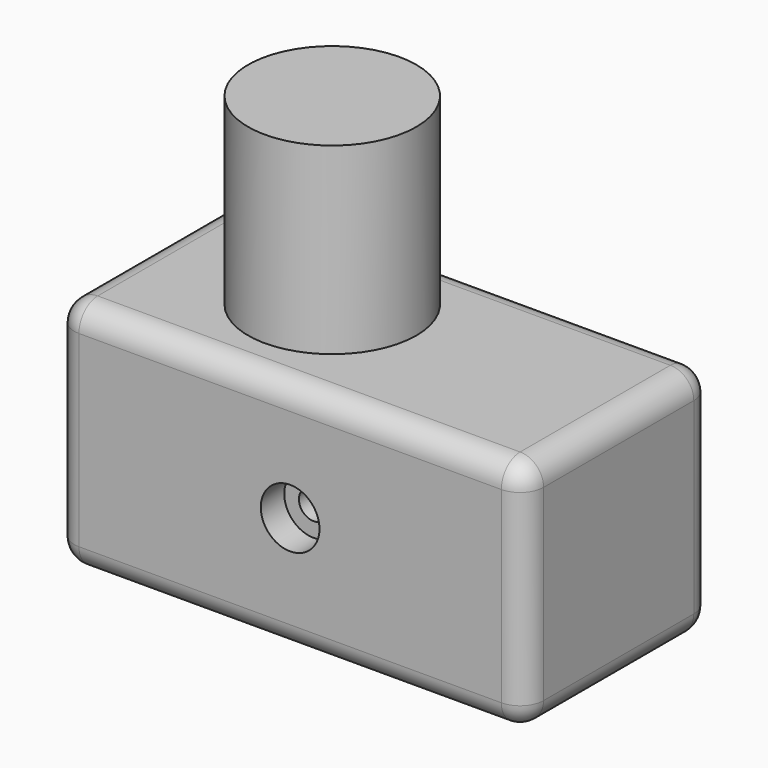
from build123d import *

# Parameters (mm, degrees)
F0_W           = 101.6
F0_H           = 50.8
F1_DEPTH       = 50.8
F3_D           = 6.35
F3_CBORE_D     = 12.7
F3_CBORE_DEPTH = 6.35
F4_R           = 5.08
F6_R           = 18.2174752487
F7_DEPTH       = 39.751


with BuildPart() as f1:
    # F0 (on Top) → F1 (new body)
    with BuildSketch(Plane.XY):
        with Locations((50.8, 25.4)):
            Rectangle(F0_W, F0_H)
    extrude(amount=F1_DEPTH)

    # F3 (through all)
    with Locations(Plane.XZ):
        with Locations((50.8, 25.4)):
            CounterBoreHole(F3_D / 2, F3_CBORE_D / 2, F3_CBORE_DEPTH)

    # F4
    f4_edges = [f1.edges().sort_by_distance(p)[0] for p in [
        (101.6, 25.4, 50.8),
        (101.6, 0, 25.4),
        (101.6, 50.8, 25.4),
        (101.6, 25.4, 0),
        (0, 25.4, 50.8),
        (0, 25.4, 0),
        (0, 50.8, 25.4),
        (0, 0, 25.4),
        (50.8, 0, 50.8),
        (50.8, 0, 0),
        (50.8, 50.8, 0),
        (50.8, 50.8, 50.8),
        (47.625, 50.8, 25.4),
    ]]
    fillet(f4_edges, radius=F4_R)


with BuildPart() as f7:
    # F6 (on offset) → F7 (new body)
    with BuildSketch(Plane.XY.offset(90.678)):
        with Locations((38.1254069507, 27.2338427603)):
            Circle(F6_R)
    extrude(amount=-F7_DEPTH)


solid = Compound([f1.part, f7.part])
